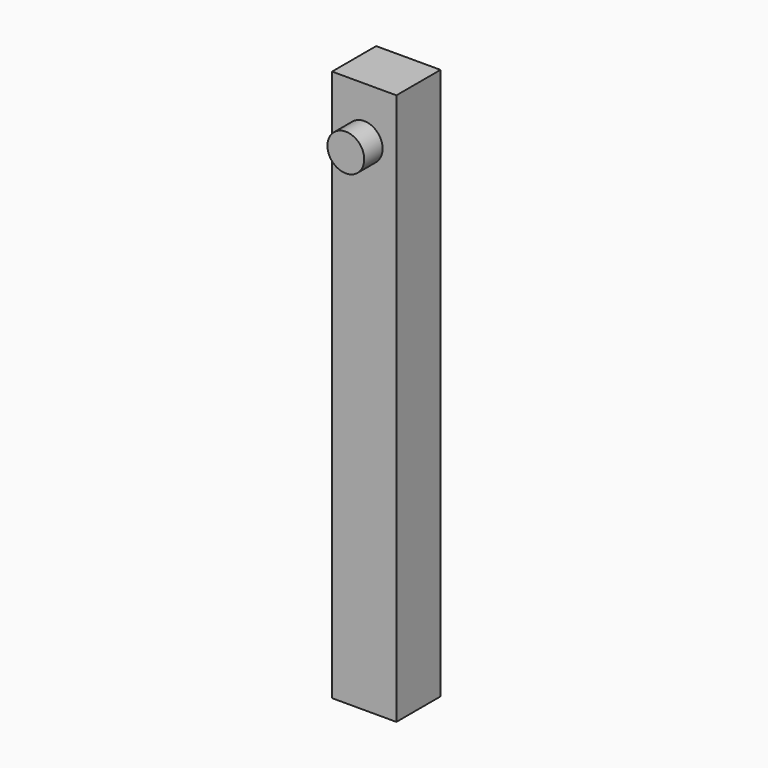
from build123d import *

# Parameters (mm, degrees)
F0_W     = 14
F0_H     = 12
F1_DEPTH = 120
F2_R     = 4
F3_DEPTH = 5


with BuildPart() as f1:
    # F0 (on Top) → F1 (new body)
    with BuildSketch(Plane.XY):
        Rectangle(F0_W, F0_H)
    extrude(amount=F1_DEPTH)

    # F2 (on face) → F3 (join)
    with BuildSketch(Plane.XZ.offset(6)):
        with Locations((0, 108.803652)):
            Circle(F2_R)
    extrude(amount=F3_DEPTH)


solid = f1.part
